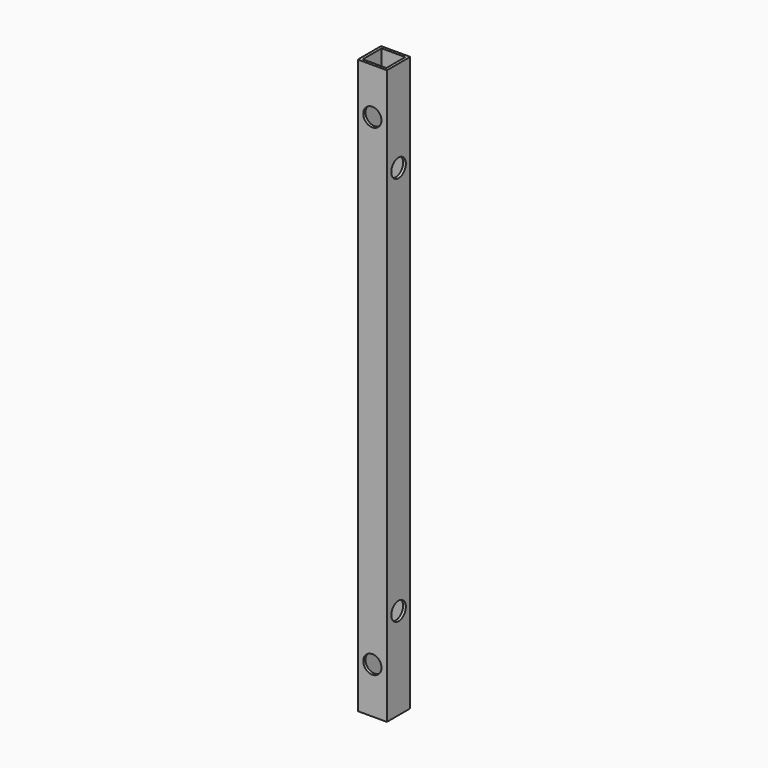
from build123d import *

# Parameters (mm, degrees)
SKETCH_R         = 3.96875
EXTRUDE001_DEPTH = 12.7
SKETCH001_R      = 3.96875
EXTRUDE_DEPTH    = 12.7
BOX001_W         = 10.3
BOX001_H         = 10.3
BOX001_DEPTH     = 250
BOX_W            = 12.7
BOX_H            = 12.7
BOX_DEPTH        = 250


with BuildPart() as extrude001:
    # Sketch (on Face6 of Cut001) → Extrude001 (new body)
    with BuildSketch(Plane.YZ.offset(12.7)):
        with Locations((6.35, 210)):
            Circle(SKETCH_R)
        with Locations((6.35, 40)):
            Circle(SKETCH_R)
    extrude(amount=-EXTRUDE001_DEPTH)


with BuildPart() as extrude_body:
    # Sketch001 (on Face3 of Box) → Extrude (new body)
    with BuildSketch(Plane.XZ):
        with Locations((6.35, 20)):
            Circle(SKETCH001_R)
        with Locations((6.35, 230)):
            Circle(SKETCH001_R)
    extrude(amount=-EXTRUDE_DEPTH)


with BuildPart() as obj1:
    # Box001 → Box001 (new body)
    with BuildSketch(Plane(origin=(1.2, 1.2, 0), x_dir=(1, 0, 0), z_dir=(0, 0, 1))):
        with Locations((5.15, 5.15)):
            Rectangle(BOX001_W, BOX001_H)
    extrude(amount=BOX001_DEPTH)


with BuildPart() as cut002:
    # Box → Box (new body)
    with BuildSketch(Plane.XY):
        with Locations((6.35, 6.35)):
            Rectangle(BOX_W, BOX_H)
    extrude(amount=BOX_DEPTH)

    # Cut: cut obj1
    add(obj1.part, mode=Mode.SUBTRACT)

    # Cut001: cut Extrude body
    add(extrude_body.part, mode=Mode.SUBTRACT)

    # Cut002: cut Extrude001
    add(extrude001.part, mode=Mode.SUBTRACT)


solid = cut002.part
